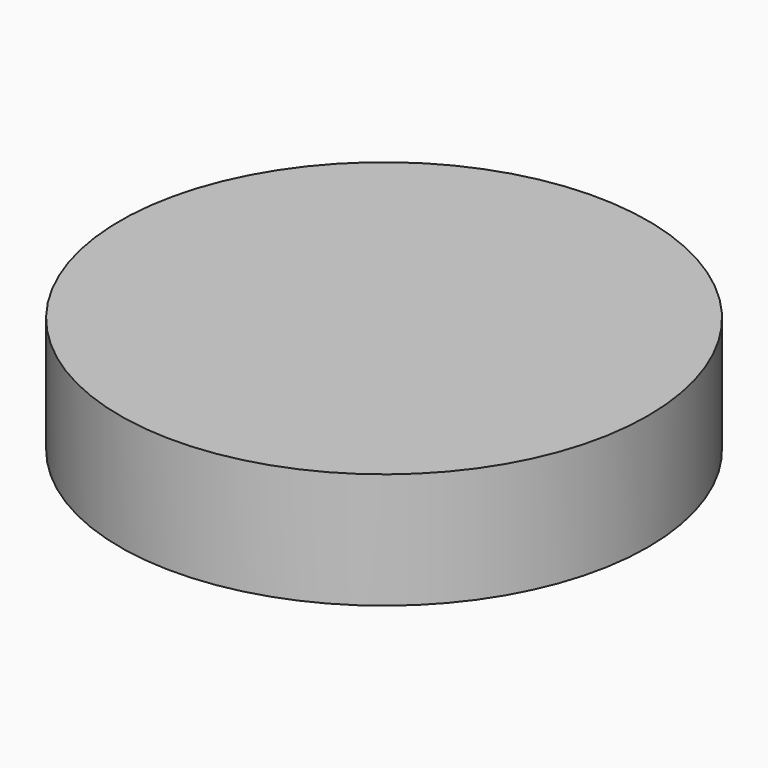
from build123d import *

# Parameters (mm, degrees)
F0_R      = 57.9627661604
F1_DEPTH  = 25.4
F2_R      = 32.9835616542
F1_FACE_R = 57.9627661604
F3_DEPTH  = 25.4
F4_R      = 57.9627661604
F5_DEPTH  = 25.4


with BuildPart() as f1:
    # F0 (on Top) → F1 (new body)
    with BuildSketch(Plane.XY):
        Circle(F0_R)
    extrude(amount=F1_DEPTH)

    # F2 (on Top) + F1_face (on face) → F3 (join)
    with BuildSketch(Plane.XY):
        Circle(F2_R)
    with BuildSketch(Plane(origin=(0, 0, 0), x_dir=(1, 0, 0), z_dir=(0, 0, -1))):
        Circle(F1_FACE_R)
    extrude(amount=F3_DEPTH, dir=(0, 0, 1))

    # F4 (on Top) → F5 (join)
    with BuildSketch(Plane.XY):
        Circle(F4_R)
    extrude(amount=F5_DEPTH)


solid = f1.part
